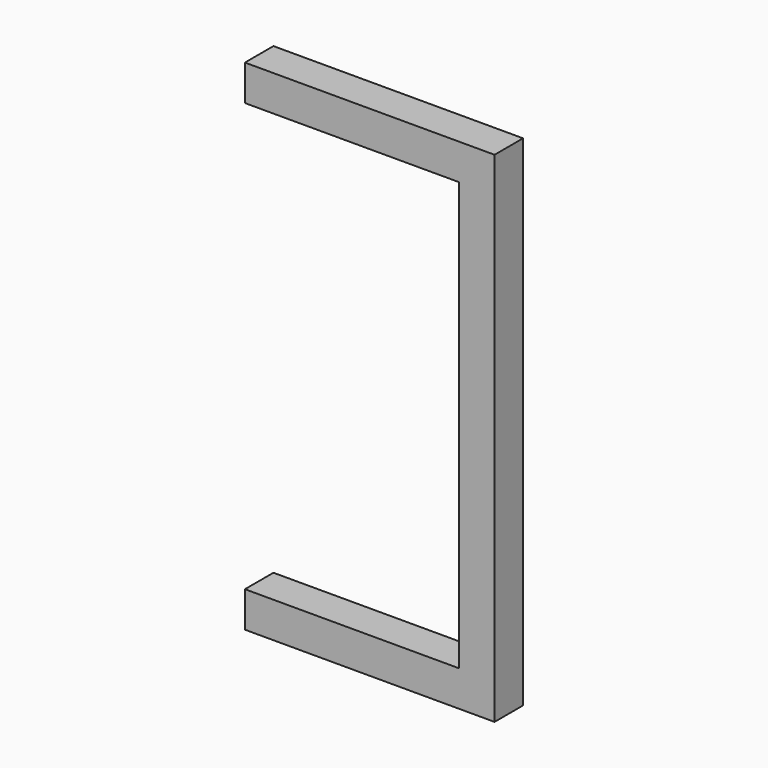
from build123d import *

# Parameters (mm, degrees)
BOX244_W     = 12
BOX244_H     = 2
BOX244_DEPTH = 2
BOX245_W     = 12
BOX245_H     = 2
BOX245_DEPTH = 2
BOX243_W     = 2
BOX243_H     = 2
BOX243_DEPTH = 28


with BuildPart() as cube232:
    # Box244 → Box244 (new body)
    with BuildSketch(Plane(origin=(96.5, 53, -8.5), x_dir=(1, 0, 0), z_dir=(0, 0, 1))):
        with Locations((6, 1)):
            Rectangle(BOX244_W, BOX244_H)
    extrude(amount=BOX244_DEPTH)


with BuildPart() as cube233:
    # Box245 → Box245 (new body)
    with BuildSketch(Plane(origin=(96.5, 53, -34.5), x_dir=(1, 0, 0), z_dir=(0, 0, 1))):
        with Locations((6, 1)):
            Rectangle(BOX245_W, BOX245_H)
    extrude(amount=BOX245_DEPTH)


with BuildPart() as fusion077:
    # Box243 → Box243 (new body)
    with BuildSketch(Plane(origin=(108.5, 53, -34.5), x_dir=(1, 0, 0), z_dir=(0, 0, 1))):
        with Locations((1, 1)):
            Rectangle(BOX243_W, BOX243_H)
    extrude(amount=BOX243_DEPTH)

    # Fusion077: union Cube232, Cube233
    add(cube232.part)
    add(cube233.part)


solid = fusion077.part
